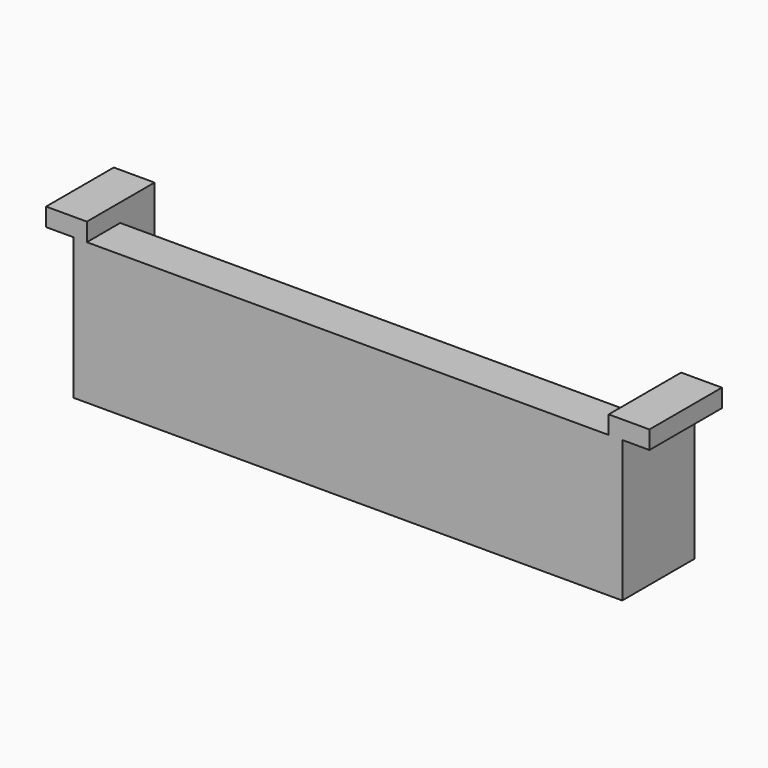
from build123d import *

# Parameters (mm, degrees)
F1_DEPTH = 7.8
F3_DEPTH = 1
F4_W     = 28.8
F4_H     = 1
F5_DEPTH = 5.001


with BuildPart() as f1:
    # F0 (on Top) → F1 (new body)
    with BuildSketch(Plane.XY):
        Polygon((-18.3, 4.669697), (-18.3, 0), (12, 0), (12, 5), (11.25, 5), (11.25, 2.3), (-17.55, 2.3), (-17.55, 4.669697), align=None)
    extrude(amount=F1_DEPTH)

    # F2 (on face) → F3 (join)
    with BuildSketch(Plane.XY.offset(7.8)):
        Polygon((-17.55, 2.3), (-17.55, 4.669697), (-19.8, 4.669697), (-19.8, 0), (13.5, 0), (13.5, 5), (11.25, 5), (11.25, 2.3), align=None)
    extrude(amount=F3_DEPTH)

    # F4 (on face) → F5 (cut, through all)
    with BuildSketch(Plane.XZ):
        with Locations((-3.15, 8.3)):
            Rectangle(F4_W, F4_H)
    extrude(amount=-F5_DEPTH, mode=Mode.SUBTRACT)


solid = f1.part
